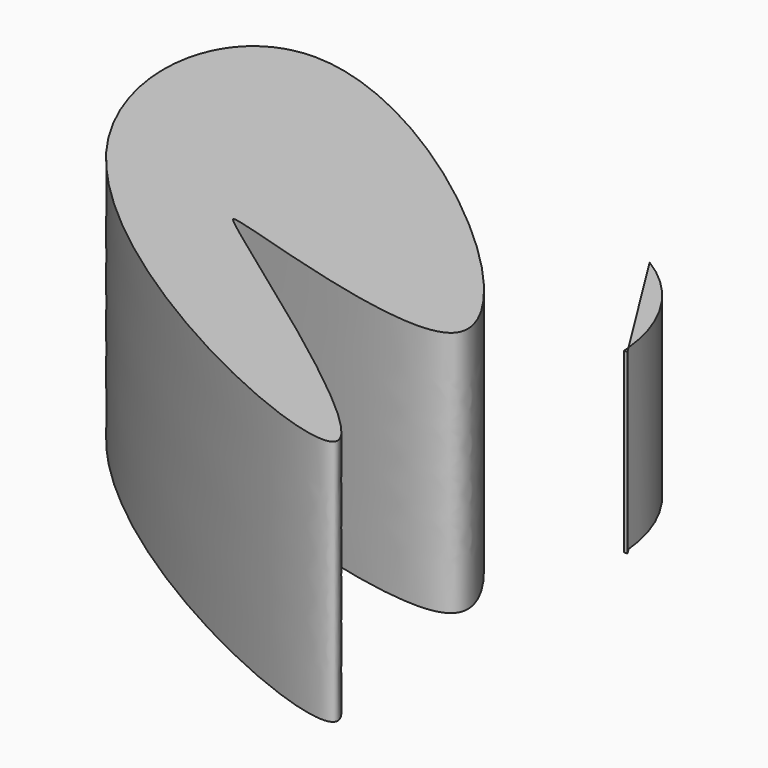
from build123d import *

# Parameters (mm, degrees)
F1_DEPTH = 25.4
F2_DEPTH = 7.366
F4_DEPTH = 35.306


with BuildPart() as f1:
    # F0 (on Top) → F1 (new body)
    with BuildSketch(Plane.XY):
        with BuildLine():
            ThreePointArc((-0.5530842016, 0.8805682573), (-0.5137063993, 0.4268264893), (-0.4832633012, -0.0276021862))
            Line((-0.4832633012, -0.0276021862), (0, 0))
            Line((0, 0), (-0.5530842016, 0.8805682573))
        make_face()
    extrude(amount=F1_DEPTH)



with BuildPart() as f1b:
    # F0 (on Top) → F1, piece 2 (new body)
    with BuildSketch(Plane.XY):
        with BuildLine():
            Line((-11.5823997185, 18.4403993189), (-0.5530842016, 0.8805682573))
            ThreePointArc((-0.5530842016, 0.8805682573), (-3.9915082342, 10.9645644919), (-11.5823997185, 18.4403993189))
        make_face()
    extrude(amount=F1_DEPTH)


with BuildPart() as f1_1:
    add(f1.part)
    # F2 (add): a face of the model
    f2_faces = [f1b.part.faces().sort_by_distance(p)[0] for p in [
        (-5.2333592766, 10.1845588686, 25.4),
    ]]

    add(f1b.part)  # F2 merges F1b
    extrude(f2_faces, amount=-F2_DEPTH)


with BuildPart() as f4:
    # F3 (on Top) → F4 (new body)
    with BuildSketch(Plane.XY):
        with BuildLine():
            add(Edge.make_bspline(
                [(-59.7408004105, 19.0500002354), (-40.8468928356, 18.7867455323), (29.5641067066, -42.8329080849), (-43.7034609506, -15.8726261872), (-41.4146528628, -19.0002572872), (42.3485867045, -75.9473364432), (-79.7020317646, -22.0154024032), (-72.6216263021, 19.2294727973), (-59.7408004105, 19.0500002354)],
                knots=[0, 0, 0, 0, 0.2244326981, 0.3890586935, 0.4114687684, 0.6109086194, 0.8469941436, 1, 1, 1, 1], degree=3))
        make_face()
    extrude(amount=F4_DEPTH)


solid = Compound([f1_1.part, f4.part])
